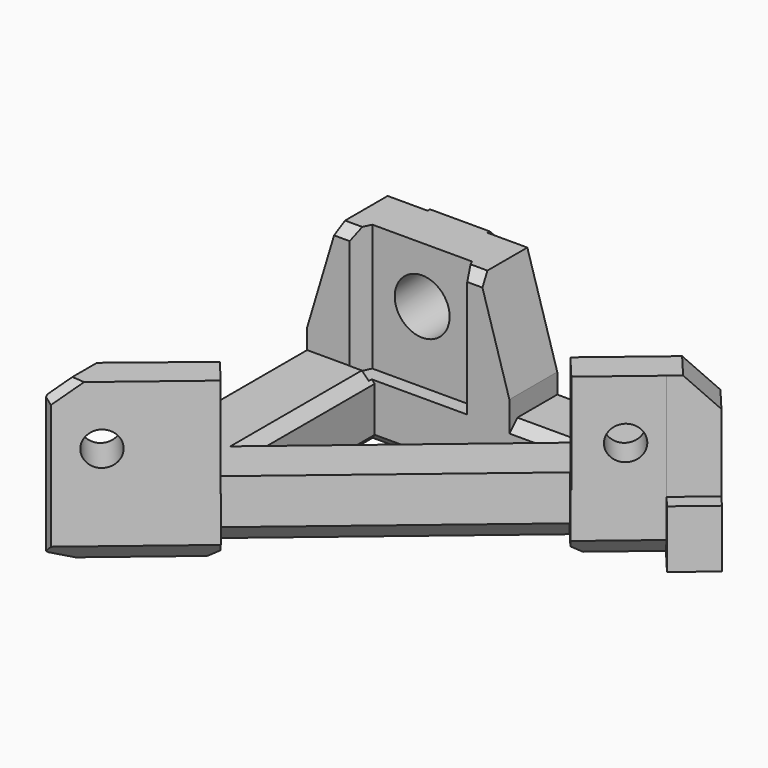
from build123d import *

# Parameters (mm, degrees)
PAD019_DEPTH     = 18.5
POCKET042_DEPTH  = 13
POCKET043_DEPTH  = 5
POCKET044_DEPTH  = 15
CHAMFER018_SIZE  = 3
CHAMFER019_SIZE  = 2
CHAMFER020_SIZE  = 1
CHAMFER021_SIZE  = 1
CHAMFER022_SIZE  = 1
CHAMFER023_SIZE  = 1
CHAMFER024_SIZE  = 1
CHAMFER025_SIZE  = 1.5
CHAMFER026_SIZE  = 1
CHAMFER027_SIZE  = 1
CHAMFER028_SIZE  = 1
CHAMFER029_SIZE  = 1
CHAMFER030_SIZE  = 1.5
CHAMFER031_SIZE2 = 3
CHAMFER031_SIZE  = 10
CHAMFER032_SIZE2 = 10
CHAMFER032_SIZE  = 3
CHAMFER033_SIZE  = 1
CHAMFER034_SIZE  = 1.5
CHAMFER035_SIZE  = 1
SKETCH082_R      = 2.75
POCKET045_DEPTH  = 12
SKETCH083_R      = 1.7
POCKET046_DEPTH  = 5


with BuildPart() as part:
    # Sketch078 → Pad019 (new body)
    with BuildSketch(Plane.XY):
        Polygon((0, 38.8), (8, 38.8), (8, 40.6), (14, 40.6), (14, 38.8), (28, 38.8), (28, 40.6), (34, 40.6), (34, 38.7761214391), (37.3, 38.7761214391), (41.9953022309, 33.1864759261), (38.7027713123, 30.4207499545), (37.673663974, 31.6458777382), (31.9308774881, 26.82193709), (30.0013012288, 29.1190516844), (9.0209879336, 11.4955885164), (10.9505641929, 9.198473922), (0, 0), align=None)
        Polygon((7.5, 32.8), (7.5, 18.1), (25, 32.8), align=None, mode=Mode.SUBTRACT)
    extrude(amount=PAD019_DEPTH)

    # Sketch079 → Pocket042 (cut)
    with BuildSketch(Plane.XY.offset(6.5)):
        Polygon((0, 5.5542995553), (8.2661306752, 12.395656), (10.9598026716, 9.1854627211), (31.9879670751, 26.8301877163), (29.8577953381, 29.3688275367), (38.9152591587, 36.9689420879), (34.890976, 41.764896), (21, 41.764896), (21, 32.458794), (1, 32.458794), (1, 41.759258), (0, 41.764896), align=None)
    extrude(amount=POCKET042_DEPTH, mode=Mode.SUBTRACT)

    # Sketch080 → Pocket043 (cut)
    with BuildSketch(Plane.XY.offset(16.5)):
        Polygon((-0.8541061726, -4.3526620467), (49.194970654, 37.6434998606), (44.0526697777, 43.7718554052), (-5.9964070501, 1.7756934982), align=None)
    extrude(amount=POCKET043_DEPTH, mode=Mode.SUBTRACT)

    # Sketch081 → Pocket044 (cut)
    with BuildSketch(Plane.XY.offset(5.8)):
        Polygon((37.0972154509, 31.1536445146), (41.470166846, 34.8229864174), (44.3478623025, 31.3934825187), (39.9749109074, 27.724140616), align=None)
        Polygon((6.1, 34.25), (16.1, 34.25), (16.9452365235, 32.4373844259), (5.2547634765, 32.4373844259), align=None)
    extrude(amount=POCKET044_DEPTH, mode=Mode.SUBTRACT)

    # Chamfer018
    chamfer018_edges = [part.edges().sort_by_distance(p)[0] for p in [
        (39.915045, 35.662973, 16.5),
    ]]
    chamfer(chamfer018_edges, length=CHAMFER018_SIZE)

    # Chamfer019
    chamfer019_edges = [part.edges().sort_by_distance(p)[0] for p in [
        (5.475282, 4.599237, 0),
        (19.511145, 20.30732, 0),
        (34.802271, 29.233907, 0),
    ]]
    chamfer(chamfer019_edges, length=CHAMFER019_SIZE)

    # Chamfer020
    chamfer020_edges = [part.edges().sort_by_distance(p)[0] for p in [
        (9.342584, 11.112736, 0),
        (8.377796, 12.261293, 0),
        (29.358109, 29.884757, 0),
        (30.322897, 28.736199, 0),
    ]]
    chamfer(chamfer020_edges, length=CHAMFER020_SIZE)

    # Chamfer021
    chamfer021_edges = [part.edges().sort_by_distance(p)[0] for p in [
        (7.5, 25.45, 0),
        (16.25, 25.45, 0),
        (16.25, 32.8, 0),
    ]]
    chamfer(chamfer021_edges, length=CHAMFER021_SIZE)

    # Chamfer022
    chamfer022_edges = [part.edges().sort_by_distance(p)[0] for p in [
        (0, 20.705986, 0),
        (0, 22.17715, 6.5),
    ]]
    chamfer(chamfer022_edges, length=CHAMFER022_SIZE)

    # Chamfer023
    chamfer023_edges = [part.edges().sort_by_distance(p)[0] for p in [
        (0, 38.8, 3.25),
    ]]
    chamfer(chamfer023_edges, length=CHAMFER023_SIZE)

    # Chamfer024
    chamfer024_edges = [part.edges().sort_by_distance(p)[0] for p in [
        (0, 0, 9.25),
    ]]
    chamfer(chamfer024_edges, length=CHAMFER024_SIZE)

    # Chamfer025
    chamfer025_edges = [part.edges().sort_by_distance(p)[0] for p in [
        (0, 3.27715, 16.5),
    ]]
    chamfer(chamfer025_edges, length=CHAMFER025_SIZE)

    # Chamfer026
    chamfer026_edges = [part.edges().sort_by_distance(p)[0] for p in [
        (4.883065, 9.595706, 16.5),
    ]]
    chamfer(chamfer026_edges, length=CHAMFER026_SIZE)

    # Chamfer027
    chamfer027_edges = [part.edges().sort_by_distance(p)[0] for p in [
        (1.132852, 0.951596, 16.132852),
    ]]
    chamfer(chamfer027_edges, length=CHAMFER027_SIZE)

    # Chamfer028
    chamfer028_edges = [part.edges().sort_by_distance(p)[0] for p in [
        (8.266131, 12.395656, 11),
    ]]
    chamfer(chamfer028_edges, length=CHAMFER028_SIZE)

    # Chamfer029
    chamfer029_edges = [part.edges().sort_by_distance(p)[0] for p in [
        (38.079114, 37.848605, 6.5),
    ]]
    chamfer(chamfer029_edges, length=CHAMFER029_SIZE)

    # Chamfer030
    chamfer030_edges = [part.edges().sort_by_distance(p)[0] for p in [
        (31, 40.6, 6.5),
    ]]
    chamfer(chamfer030_edges, length=CHAMFER030_SIZE)

    # Chamfer031
    chamfer031_edges = [part.edges().sort_by_distance(p)[0] for p in [
        (21, 35.8, 18.5),
    ]]
    chamfer031_side = part.faces().sort_by_distance((21, 35.8, 12.5))[0]
    chamfer(chamfer031_edges, length=CHAMFER031_SIZE, length2=CHAMFER031_SIZE2, reference=chamfer031_side)

    # Chamfer032
    chamfer032_edges = [part.edges().sort_by_distance(p)[0] for p in [
        (1, 35.629397, 18.5),
    ]]
    chamfer032_side = part.faces().sort_by_distance((9.318343, 36.537604, 18.5))[0]
    chamfer(chamfer032_edges, length=CHAMFER032_SIZE, length2=CHAMFER032_SIZE2, reference=chamfer032_side)

    # Chamfer033
    chamfer033_edges = [part.edges().sort_by_distance(p)[0] for p in [
        (17.388073, 32.8, 18.5),
        (4.632373, 32.458794, 18.5),
    ]]
    chamfer(chamfer033_edges, length=CHAMFER033_SIZE)

    # Chamfer034
    chamfer034_edges = [part.edges().sort_by_distance(p)[0] for p in [
        (11, 40.6, 18.5),
    ]]
    chamfer(chamfer034_edges, length=CHAMFER034_SIZE)

    # Chamfer035
    chamfer035_edges = [part.edges().sort_by_distance(p)[0] for p in [
        (23, 32.8, 6.5),
        (16.25, 25.45, 6.5),
        (7.5, 25.268692, 6.5),
    ]]
    chamfer(chamfer035_edges, length=CHAMFER035_SIZE)

    # Sketch082 → Pocket045 (cut)
    with BuildSketch(Plane.XZ.offset(-30)):
        with Locations((11.1, 12.9)):
            Circle(SKETCH082_R)
    extrude(amount=-POCKET045_DEPTH, mode=Mode.SUBTRACT)

    # Sketch083 (on DatumPlane) → Pocket046 (cut)
    with BuildSketch(Plane(origin=(0, 0, 0), x_dir=(0.7657048648, 0.6431920864, 0), z_dir=(0.6431920864, -0.7657048648, 0))):
        with Locations((5, 10.6)):
            Circle(SKETCH083_R)
        with Locations((46, 10.6)):
            Circle(SKETCH083_R)
    extrude(amount=-POCKET046_DEPTH, mode=Mode.SUBTRACT)


with BuildPart() as part_1:
    # Body015 placement: moved
    add(part.part.moved(Location((57, 0, 0))))


solid = part_1.part
